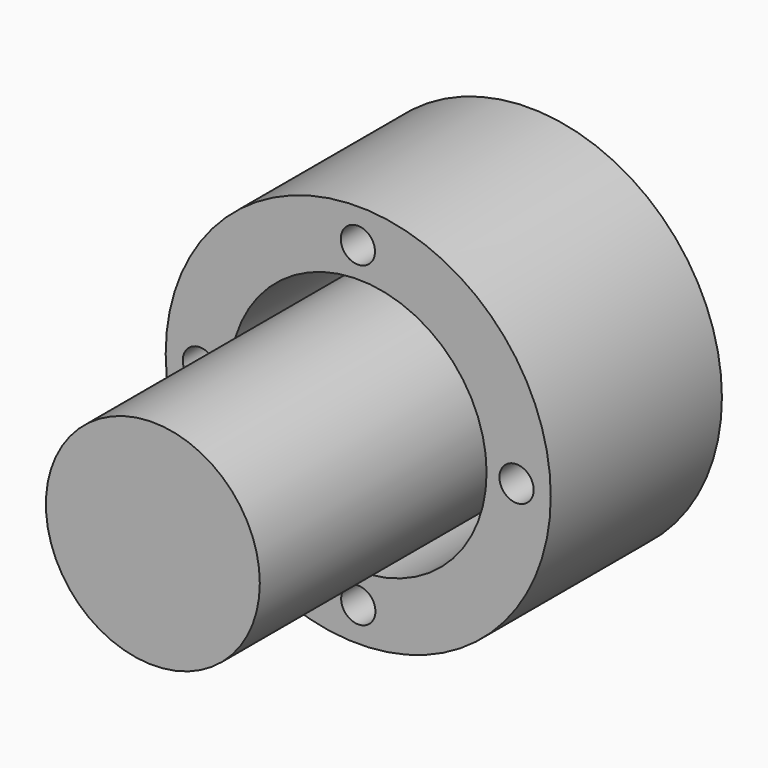
from build123d import *

# Parameters (mm, degrees)
F0_R      = 22.5
F0_R_2    = 2
F0_R_3    = 15
F0_R_4    = 12.5
F1_DEPTH  = 25
F1_FACE_R = 12.5
F2_DEPTH  = 30


with BuildPart() as f1:
    # F0 (on Front) → F1 (new body)
    with BuildSketch(Plane.XZ):
        Circle(F0_R)
        with Locations((0.006593, -18.499999)):
            Circle(F0_R_2, mode=Mode.SUBTRACT)
        with Locations((-18.5, 0)):
            Circle(F0_R_2, mode=Mode.SUBTRACT)
        with Locations((-0.041536, 18.499953)):
            Circle(F0_R_2, mode=Mode.SUBTRACT)
        Circle(F0_R_3, mode=Mode.SUBTRACT)
        with Locations((18.5, 0)):
            Circle(F0_R_2, mode=Mode.SUBTRACT)
        Circle(F0_R_4)
    extrude(amount=F1_DEPTH)

    # F1_face (on face) → F2 (join)
    with BuildSketch(Plane.XZ.offset(25)):
        Circle(F1_FACE_R)
        Circle(F1_FACE_R)
    extrude(amount=F2_DEPTH)


solid = f1.part
